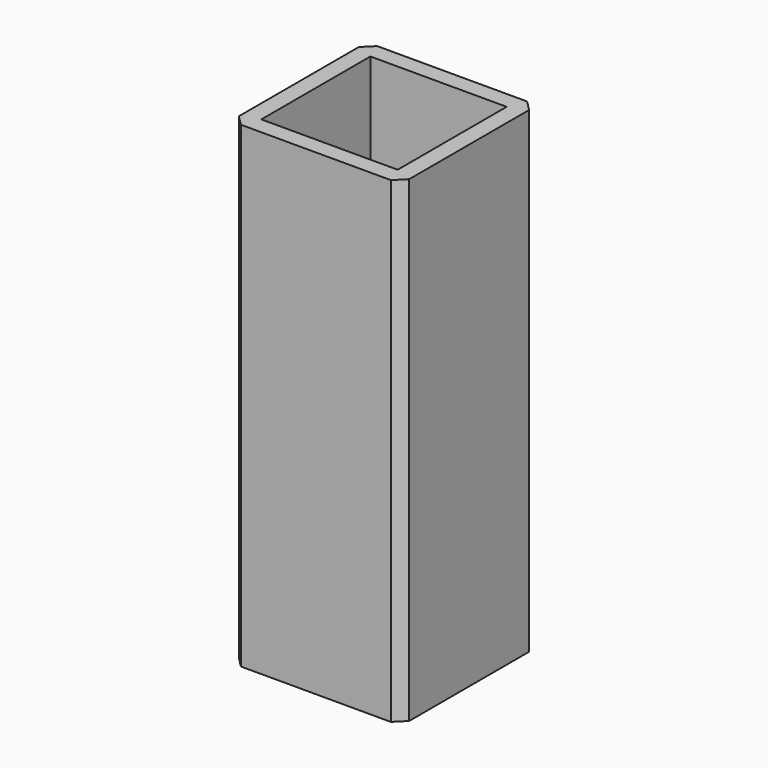
from build123d import *

# Parameters (mm, degrees)
F0_W     = 50
F0_H     = 50
F0_W_2   = 40
F0_H_2   = 40
F1_DEPTH = 140
F2_SIZE  = 3


with BuildPart() as f1:
    # F0 (on Top) → F1 (new body)
    with BuildSketch(Plane.XY):
        Rectangle(F0_W, F0_H)
        Rectangle(F0_W_2, F0_H_2, mode=Mode.SUBTRACT)
    extrude(amount=F1_DEPTH)

    # F2
    f2_edges = [f1.edges().sort_by_distance(p)[0] for p in [
        (25, -25, 70),
        (-25, -25, 70),
        (25, 25, 70),
        (-25, 25, 70),
    ]]
    chamfer(f2_edges, length=F2_SIZE)


solid = f1.part
